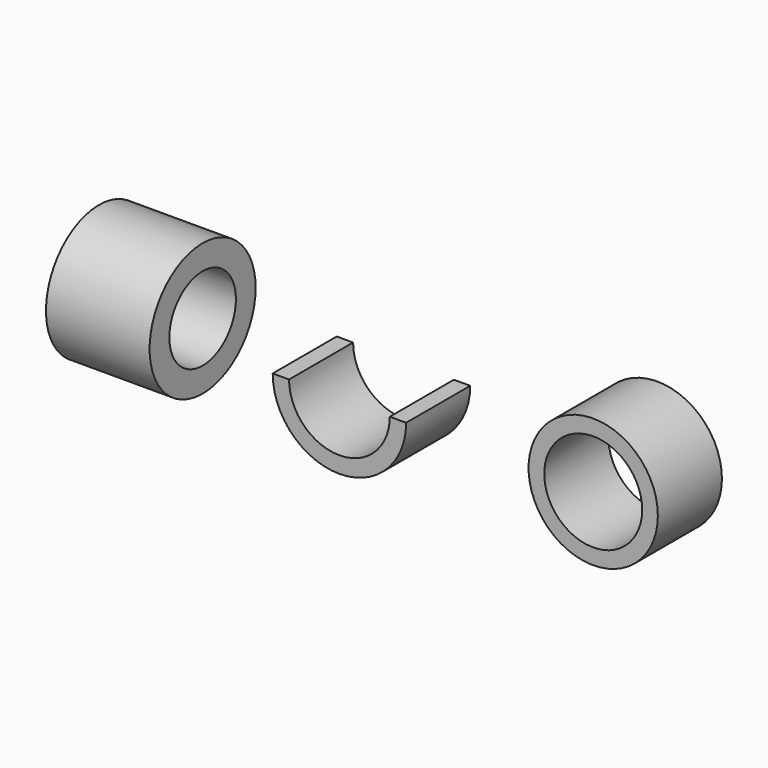
from build123d import *

# Parameters (mm, degrees)
F0_W     = 32.3487
F0_H     = 7.696051
F3_DEPTH = 25
F4_R     = 20.173866
F4_R_2   = 15.282004
F5_DEPTH = 25


with BuildPart() as f1:
    # F0 (on Top) → F1 (revolve)
    with BuildSketch(Plane.XY):
        with Locations((-34.994926, 3.848025)):
            Rectangle(F0_W, F0_H)
    revolve(axis=Axis((-34.709183, -12.985609, 0), (1, 0, 0)))


with BuildPart() as f3:
    # F2 (on Front) → F3 (new body)
    with BuildSketch(Plane.XZ):
        with BuildLine():
            ThreePointArc((12.659758, 0), (33.487156, -20.827398), (54.314554, 0))
            Line((54.314554, 0), (49.209803, 0))
            ThreePointArc((49.209803, 0), (33.487156, -15.722647), (17.764509, 0))
            Line((17.764509, 0), (12.659758, 0))
        make_face()
    extrude(amount=F3_DEPTH)


with BuildPart() as f5:
    # F4 (on Front) → F5 (new body)
    with BuildSketch(Plane.XZ):
        with Locations((112.703085, 0)):
            Circle(F4_R)
        with Locations((112.703085, 0)):
            Circle(F4_R_2, mode=Mode.SUBTRACT)
    extrude(amount=F5_DEPTH)


solid = Compound([f1.part, f3.part, f5.part])
